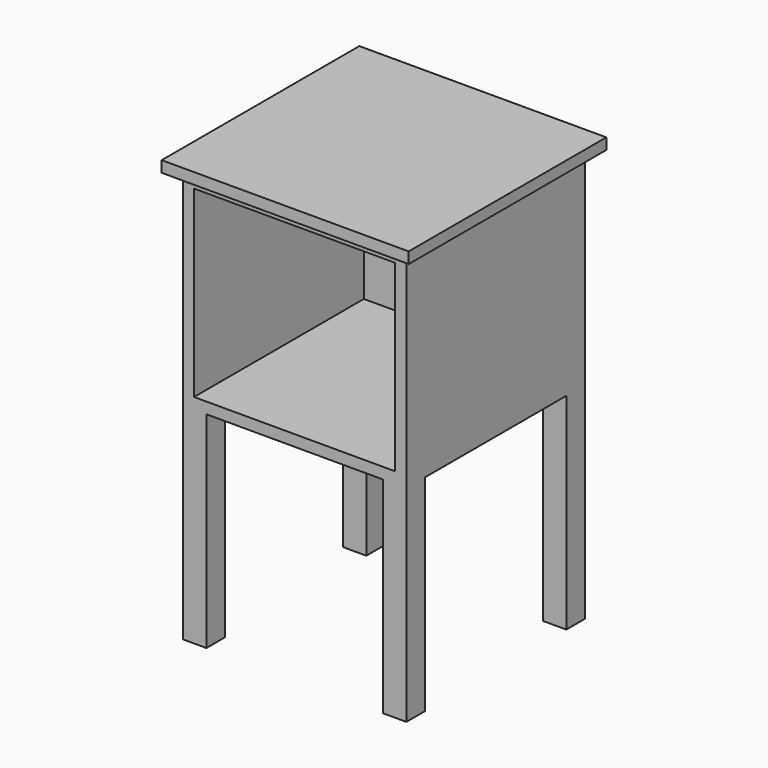
from build123d import *

# Parameters (mm, degrees)
F0_W      = 380
F0_H      = 380
F1_DEPTH  = 350
F2_W      = 342
F2_H      = 312
F3_DEPTH  = 361
F4_W      = 342
F4_H      = 312
F5_DEPTH  = 361
F6_W      = 40
F6_H      = 40
F7_DEPTH  = 150
F8_W      = 40
F8_H      = 40
F9_DEPTH  = 150
F10_W     = 40
F10_H     = 40
F11_DEPTH = 150
F12_W     = 40
F12_H     = 40
F13_DEPTH = 150
F14_W     = 420
F14_H     = 420
F14_W_2   = 380
F14_H_2   = 380
F15_DEPTH = 19
F16_DEPTH = 200


with BuildPart() as f1:
    # F0 (on Top) → F1 (new body)
    with BuildSketch(Plane.XY):
        Rectangle(F0_W, F0_H)
    extrude(amount=F1_DEPTH)

    # F2 (on face) → F3 (join)
    with BuildSketch(Plane.XZ.offset(190)):
        with Locations((0, 175)):
            Rectangle(F2_W, F2_H)
    extrude(amount=-F3_DEPTH)

    # F4 (on face) → F5 (cut)
    with BuildSketch(Plane.XZ.offset(190)):
        with Locations((0, 175)):
            Rectangle(F4_W, F4_H)
    extrude(amount=-F5_DEPTH, mode=Mode.SUBTRACT)

    # F6 (on face) → F7 (join)
    with BuildSketch(Plane(origin=(0, 0, 0), x_dir=(1, 0, 0), z_dir=(0, 0, -1))):
        with Locations((-170, 170)):
            Rectangle(F6_W, F6_H)
    extrude(amount=F7_DEPTH)

    # F8 (on face) → F9 (join)
    with BuildSketch(Plane(origin=(0, 0, 0), x_dir=(1, 0, 0), z_dir=(0, 0, -1))):
        with Locations((170, 170)):
            Rectangle(F8_W, F8_H)
    extrude(amount=F9_DEPTH)

    # F10 (on face) → F11 (join)
    with BuildSketch(Plane(origin=(0, 0, 0), x_dir=(1, 0, 0), z_dir=(0, 0, -1))):
        with Locations((-170, -170)):
            Rectangle(F10_W, F10_H)
    extrude(amount=F11_DEPTH)

    # F12 (on face) → F13 (join)
    with BuildSketch(Plane(origin=(0, 0, 0), x_dir=(1, 0, 0), z_dir=(0, 0, -1))):
        with Locations((170, -170)):
            Rectangle(F12_W, F12_H)
    extrude(amount=F13_DEPTH)

    # F14 (on face) → F15 (join)
    with BuildSketch(Plane.XY.offset(350)):
        Rectangle(F14_W, F14_H)
        Rectangle(F14_W_2, F14_H_2, mode=Mode.SUBTRACT)
        Rectangle(F14_W_2, F14_H_2)
    extrude(amount=F15_DEPTH)

    # F16 (add): faces of the model
    f16_faces = [f1.faces().sort_by_distance(p)[0] for p in [
        (-170, -170, -150),
        (170, -170, -150),
        (-170, 170, -150),
        (170, 170, -150),
    ]]
    extrude(f16_faces, amount=F16_DEPTH)


solid = f1.part
